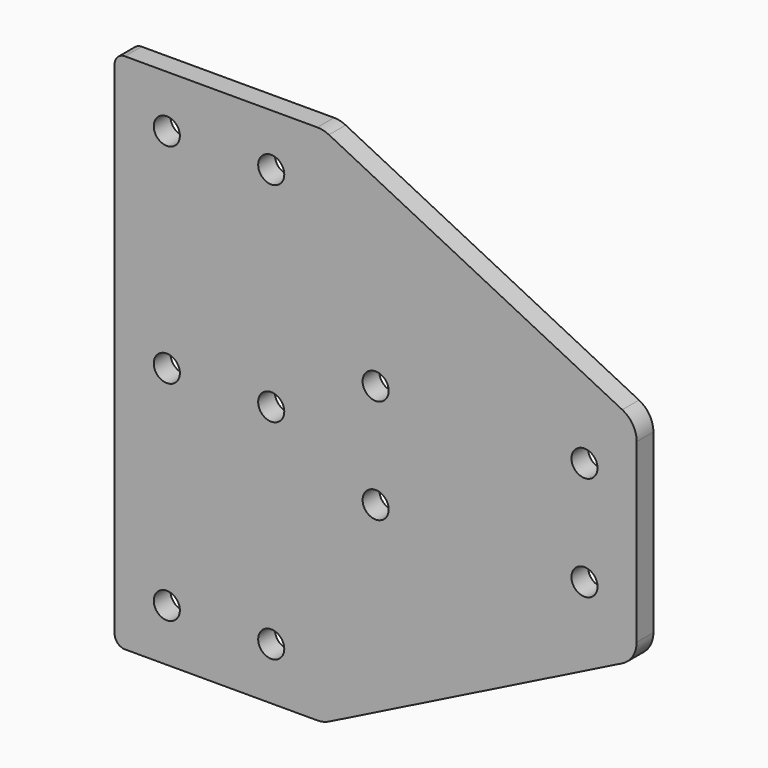
from build123d import *

# Parameters (mm, degrees)
F0_R     = 2.5
F1_DEPTH = 4


with BuildPart() as f1:
    # F0 (on Front) → F1 (new body)
    with BuildSketch(Plane.XZ):
        with BuildLine():
            Line((0, 48), (0, 0))
            Line((0, 0), (0, -48))
            ThreePointArc((0, -48), (0.585786, -49.414214), (2, -50))
            Line((2, -50), (38.81966, -50))
            ThreePointArc((38.81966, -50), (39.968425, -49.866245), (41.055728, -49.472136))
            Line((41.055728, -49.472136), (97.236068, -21.381966))
            ThreePointArc((97.236068, -21.381966), (99.253254, -19.538486), (100, -16.90983))
            Line((100, -16.90983), (100, 0))
            Line((100, 0), (100, 16.90983))
            ThreePointArc((100, 16.90983), (99.253254, 19.538486), (97.236068, 21.381966))
            Line((97.236068, 21.381966), (41.055728, 49.472136))
            ThreePointArc((41.055728, 49.472136), (39.968425, 49.866245), (38.81966, 50))
            Line((38.81966, 50), (2, 50))
            ThreePointArc((2, 50), (0.585786, 49.414214), (0, 48))
        make_face()
        with Locations((10, -40)):
            Circle(F0_R, mode=Mode.SUBTRACT)
        with Locations((30, -40)):
            Circle(F0_R, mode=Mode.SUBTRACT)
        with Locations((50, -10)):
            Circle(F0_R, mode=Mode.SUBTRACT)
        with Locations((90, -10)):
            Circle(F0_R, mode=Mode.SUBTRACT)
        with Locations((10, 0)):
            Circle(F0_R, mode=Mode.SUBTRACT)
        with Locations((30, 0)):
            Circle(F0_R, mode=Mode.SUBTRACT)
        with Locations((10, 40)):
            Circle(F0_R, mode=Mode.SUBTRACT)
        with Locations((30, 40)):
            Circle(F0_R, mode=Mode.SUBTRACT)
        with Locations((50, 10)):
            Circle(F0_R, mode=Mode.SUBTRACT)
        with Locations((90, 10)):
            Circle(F0_R, mode=Mode.SUBTRACT)
    extrude(amount=F1_DEPTH)


solid = f1.part
